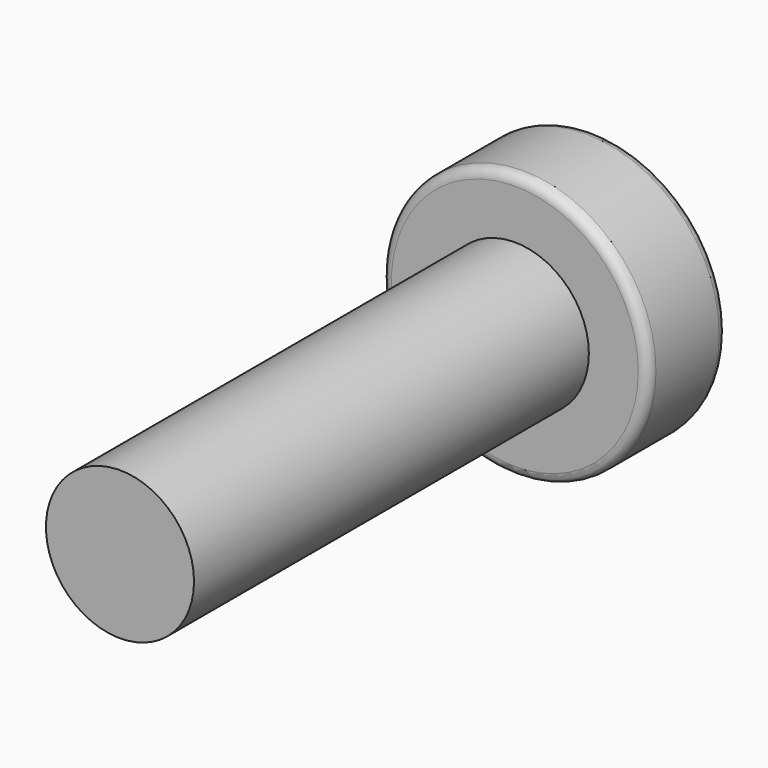
from build123d import *

# Parameters (mm, degrees)
FILLET_R     = 0.2
POCKET_DEPTH = 1.3
FILLET001_R  = 0.2


with BuildPart() as part:
    # Sketch → Revolution (revolve)
    with BuildSketch(Plane.XY):
        Polygon((0, 0), (0, 12), (2.7, 12), (2.7, 10), (1.5, 10), (1.5, 0), align=None)
    revolve(axis=Axis((0, 0, 0), (0, 1, 0)))

    # Fillet
    fillet_edges = [part.edges().sort_by_distance(p)[0] for p in [
        (-2.7, 10, 0),
        (-2.7, 12, 0),
    ]]
    fillet(fillet_edges, radius=FILLET_R)

    # Sketch001 (on Face1 of Fillet) → Pocket (cut)
    with BuildSketch(Plane(origin=(0, 12, 0), x_dir=(-1, 0, 0), z_dir=(0, 1, 0))):
        Polygon((0.5, 1.5), (0.5, 0.5), (1.5, 0.5), (1.5, -0.5), (0.5, -0.5), (0.5, -1.5), (-0.5, -1.5), (-0.5, -0.5), (-1.5, -0.5), (-1.5, 0.5), (-0.5, 0.5), (-0.5, 1.5), align=None)
    extrude(amount=-POCKET_DEPTH, mode=Mode.SUBTRACT)

    # Fillet001
    fillet001_edges = [part.edges().sort_by_distance(p)[0] for p in [
        (0, 12, -1.5),
        (0.5, 12, -1),
        (1, 12, -0.5),
        (1.5, 12, 0),
        (1, 12, 0.5),
        (0.5, 12, 1),
        (-0.5, 12, 1),
        (0, 12, 1.5),
        (-1.5, 12, 0),
        (-1, 12, -0.5),
        (-0.5, 12, -1),
    ]]
    fillet(fillet001_edges, radius=FILLET001_R)


solid = part.part
